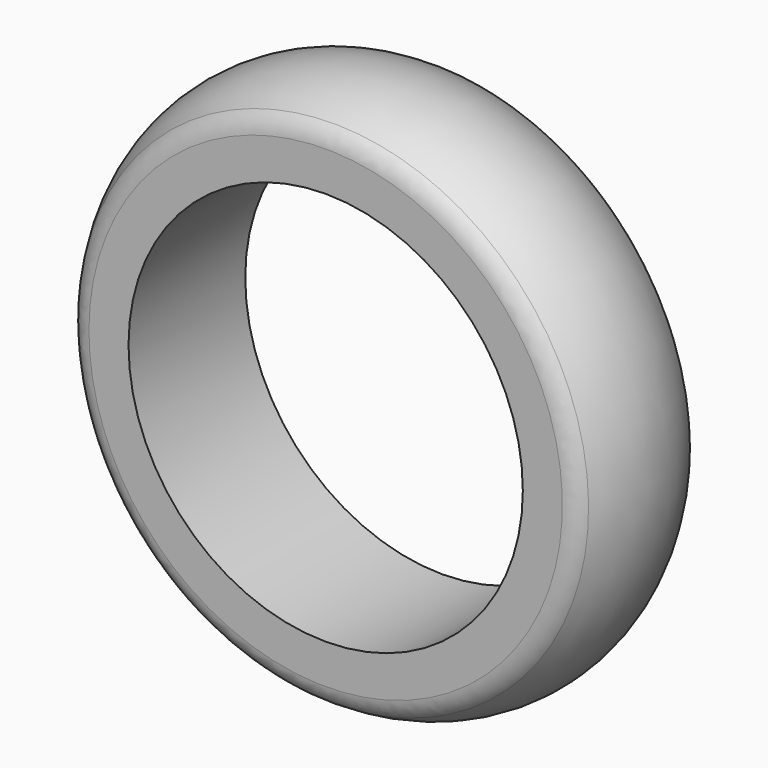
from build123d import *

# Parameters (mm, degrees)
F2_R = 1.016


with BuildPart() as f1:
    # F0 (on Top) → F1 (revolve)
    with BuildSketch(Plane.XY):
        with BuildLine():
            Line((-8.92302, -3.302), (-8.92302, 3.302))
            Line((-8.92302, 3.302), (-11.20902, 3.302))
            ThreePointArc((-11.20902, 3.302), (-12.443524, 0), (-11.20902, -3.302))
            Line((-11.20902, -3.302), (-8.92302, -3.302))
        make_face()
    revolve(axis=Axis((0, -3.096303, 0), (0, -1, 0)))

    # F2
    f2_edges = [f1.edges().sort_by_distance(p)[0] for p in [
        (11.20902, -3.302, 0),
        (11.20902, 3.302, 0),
    ]]
    fillet(f2_edges, radius=F2_R)


solid = f1.part
